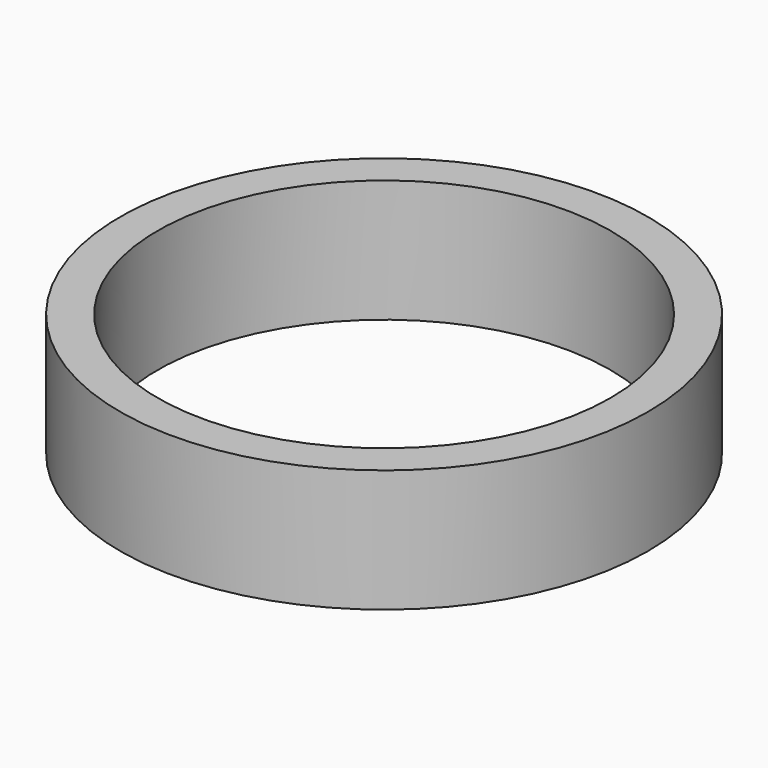
from build123d import *

# Parameters (mm, degrees)
SKETCH119_R   = 36.6
SKETCH119_R_2 = 31.4
PAD064_DEPTH  = 17


with BuildPart() as part:
    # Sketch119 → Pad064 (new body)
    with BuildSketch(Plane.XY):
        Circle(SKETCH119_R)
        Circle(SKETCH119_R_2, mode=Mode.SUBTRACT)
    extrude(amount=PAD064_DEPTH)


solid = part.part
